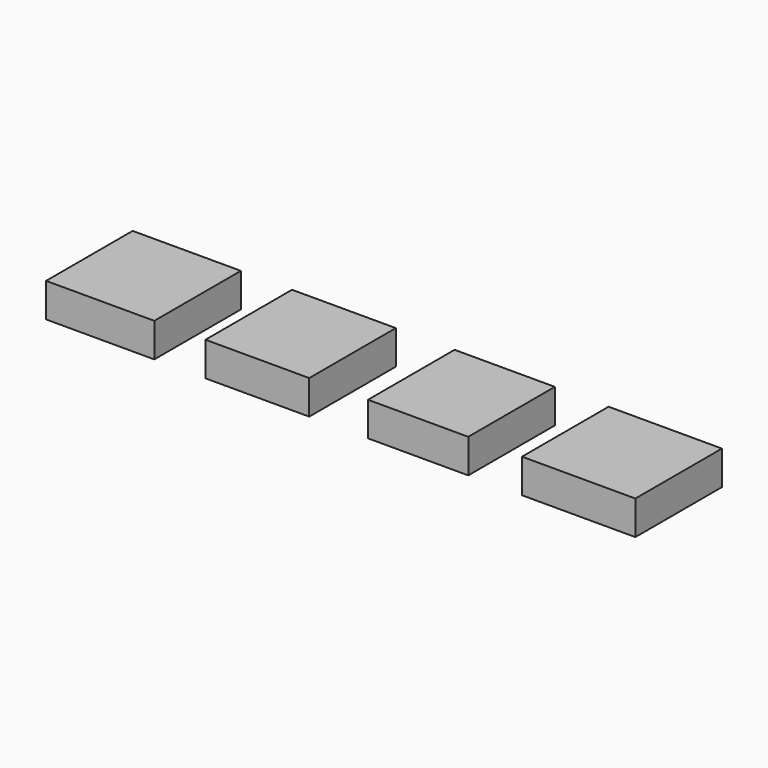
from build123d import *

# Parameters (mm, degrees)
F0_W     = 79.59804
F0_H     = 79.59804
F0_W_2   = 76.342359
F0_W_3   = 73.753029
F0_W_4   = 83.363891
F1_DEPTH = 25


with BuildPart() as f1:
    # F0 (on Top) → F1 (new body)
    with BuildSketch(Plane.XY):
        Rectangle(F0_W, F0_H)
        with Locations((115.602411, 0)):
            Rectangle(F0_W_2, F0_H)
        with Locations((233.872845, 0)):
            Rectangle(F0_W_3, F0_H)
        with Locations((351.96814, 0)):
            Rectangle(F0_W_4, F0_H)
    extrude(amount=F1_DEPTH)


solid = f1.part
